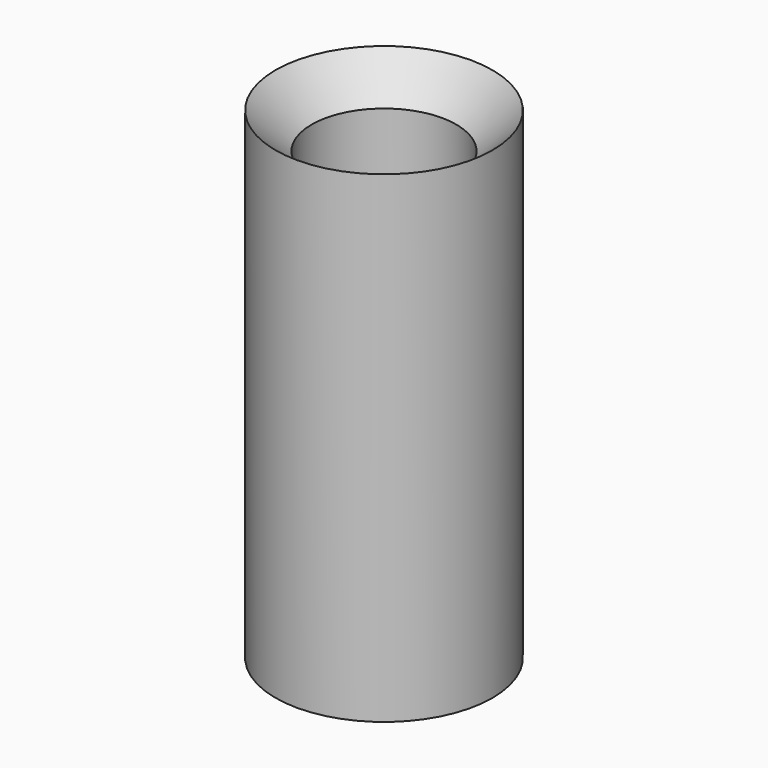
from build123d import *

# Parameters (mm, degrees)
F0_R           = 4.5
F0_R_2         = 3
F1_DEPTH       = 20
F3_D           = 6
F3_CSINK_D     = 9
F3_CSINK_ANGLE = 90


with BuildPart() as f1:
    # F0 (on Top) → F1 (new body)
    with BuildSketch(Plane.XY):
        Circle(F0_R)
        Circle(F0_R_2, mode=Mode.SUBTRACT)
    extrude(amount=F1_DEPTH)

    # F3 (through all)
    with Locations(Plane.XY.offset(20)):
        with Locations((0, 0)):
            CounterSinkHole(F3_D / 2, F3_CSINK_D / 2, counter_sink_angle=F3_CSINK_ANGLE)


solid = f1.part
